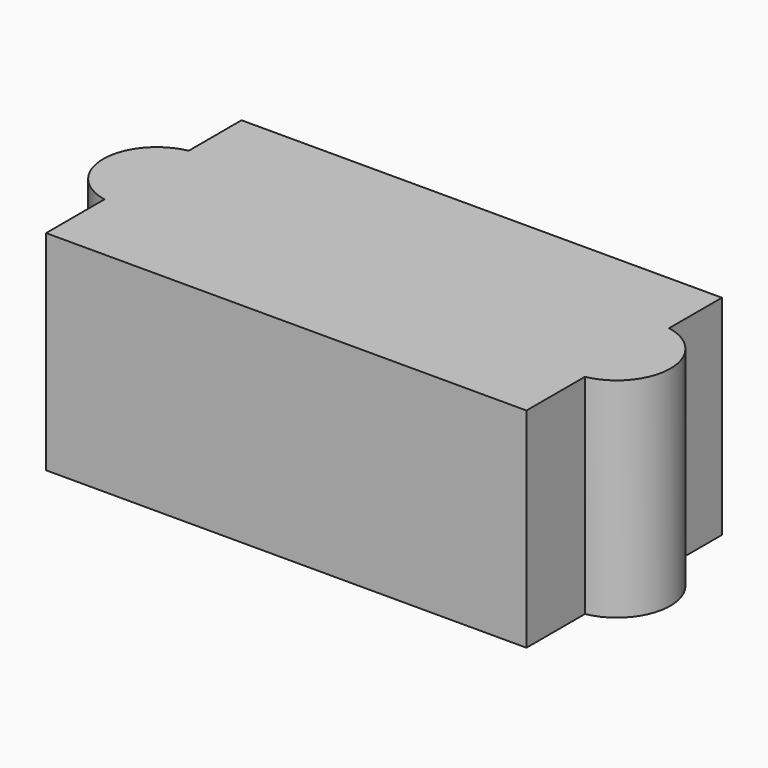
from build123d import *

# Parameters (mm, degrees)
F1_DEPTH = 25.4


with BuildPart() as f1:
    # F0 (on Top) → F1 (new body)
    with BuildSketch(Plane.XY):
        Polygon((10.555318, 29.71121), (-47.864682, 29.71121), (-47.864682, 21.680934), (-47.864682, 8.879762), (-47.864682, 0), (10.555318, 0), (10.555318, 8.879762), (10.555318, 21.680934), align=None)
        with BuildLine():
            Line((-47.864682, 8.879762), (-47.864682, 21.680934))
            ThreePointArc((-47.864682, 21.680934), (-53.150976, 15.280348), (-47.864682, 8.879762))
        make_face()
        with BuildLine():
            ThreePointArc((10.555318, 8.879762), (15.841612, 15.280348), (10.555318, 21.680934))
            Line((10.555318, 21.680934), (10.555318, 8.879762))
        make_face()
    extrude(amount=F1_DEPTH)


solid = f1.part
